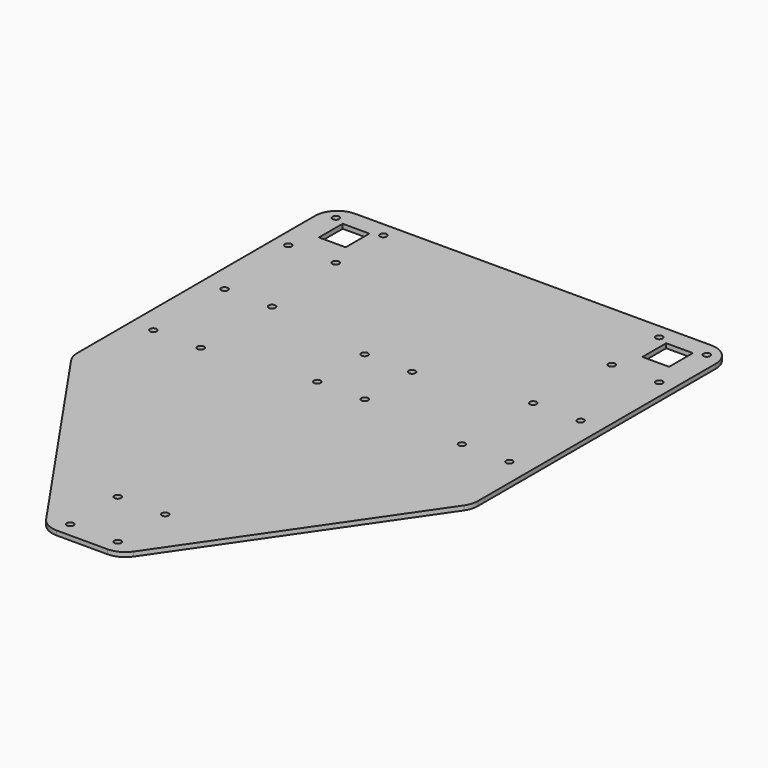
from build123d import *

# Parameters (mm, degrees)
F0_W      = 270
F0_H      = 280
F1_DEPTH  = 3
F2_R      = 2.25
F3_DEPTH  = 3.001
F4_R      = 2.25
F5_DEPTH  = 3.001
F7_DEPTH  = 3.001
F8_DEPTH  = 100
F9_R      = 2.25
F10_DEPTH = 3.001
F11_W     = 18
F11_H     = 20
F12_DEPTH = 3.001
F13_R     = 15


with BuildPart() as f1:
    # F0 (on Top) → F1 (new body)
    with BuildSketch(Plane.XY):
        Rectangle(F0_W, F0_H)
    extrude(amount=F1_DEPTH)

    # F2 (on face) → F3 (cut, through all)
    with BuildSketch(Plane.XY.offset(3)):
        with Locations((-16, -130)):
            Circle(F2_R)
        with Locations((-16, -90)):
            Circle(F2_R)
        with Locations((16, -130)):
            Circle(F2_R)
        with Locations((16, -90)):
            Circle(F2_R)
        with Locations((16, 118)):
            Circle(F2_R)
        with Locations((16, 78)):
            Circle(F2_R)
        with Locations((-16, 78)):
            Circle(F2_R)
        with Locations((-16, 118)):
            Circle(F2_R)
    extrude(amount=-F3_DEPTH, mode=Mode.SUBTRACT)

    # F4 (on face) → F5 (cut, through all)
    with BuildSketch(Plane.XY.offset(3)):
        with Locations((-120, 70)):
            Circle(F4_R)
        with Locations((-120, 130)):
            Circle(F4_R)
        with Locations((-88, 70)):
            Circle(F4_R)
        with Locations((-88, 130)):
            Circle(F4_R)
        with Locations((120, 130)):
            Circle(F4_R)
        with Locations((88, 130)):
            Circle(F4_R)
        with Locations((88, 70)):
            Circle(F4_R)
        with Locations((120, 70)):
            Circle(F4_R)
    extrude(amount=-F5_DEPTH, mode=Mode.SUBTRACT)

    # F6 (on face) → F7 (cut, through all)
    with BuildSketch(Plane.XY.offset(3)):
        Polygon((-135, -140), (-25, -140), (-135, 20), align=None)
        Polygon((135, 20), (25, -140), (135, -140), align=None)
    extrude(amount=-F7_DEPTH, mode=Mode.SUBTRACT)

    # F8 (add): a face of the model
    f8_faces = [f1.faces().sort_by_distance(p)[0] for p in [
        (0, 140, 1.5),
    ]]
    extrude(f8_faces, amount=F8_DEPTH)

    # F9 (on face) → F10 (cut, through all)
    with BuildSketch(Plane.XY.offset(3)):
        with Locations((125, 230)):
            Circle(F9_R)
        with Locations((125, 190)):
            Circle(F9_R)
        with Locations((93, 230)):
            Circle(F9_R)
        with Locations((93, 190)):
            Circle(F9_R)
        with Locations((-93, 230)):
            Circle(F9_R)
        with Locations((-93, 190)):
            Circle(F9_R)
        with Locations((-125, 190)):
            Circle(F9_R)
        with Locations((-125, 230)):
            Circle(F9_R)
    extrude(amount=-F10_DEPTH, mode=Mode.SUBTRACT)

    # F11 (on face) → F12 (cut, through all)
    with BuildSketch(Plane.XY.offset(3)):
        with Locations((-109, 217)):
            Rectangle(F11_W, F11_H)
        with Locations((109, 217)):
            Rectangle(F11_W, F11_H)
    extrude(amount=-F12_DEPTH, mode=Mode.SUBTRACT)

    # F13
    f13_edges = [f1.edges().sort_by_distance(p)[0] for p in [
        (-25, -140, 1.5),
        (25, -140, 1.5),
        (135, 20, 1.5),
        (135, 240, 1.5),
        (-135, 240, 1.5),
        (-135, 20, 1.5),
    ]]
    fillet(f13_edges, radius=F13_R)


solid = f1.part
